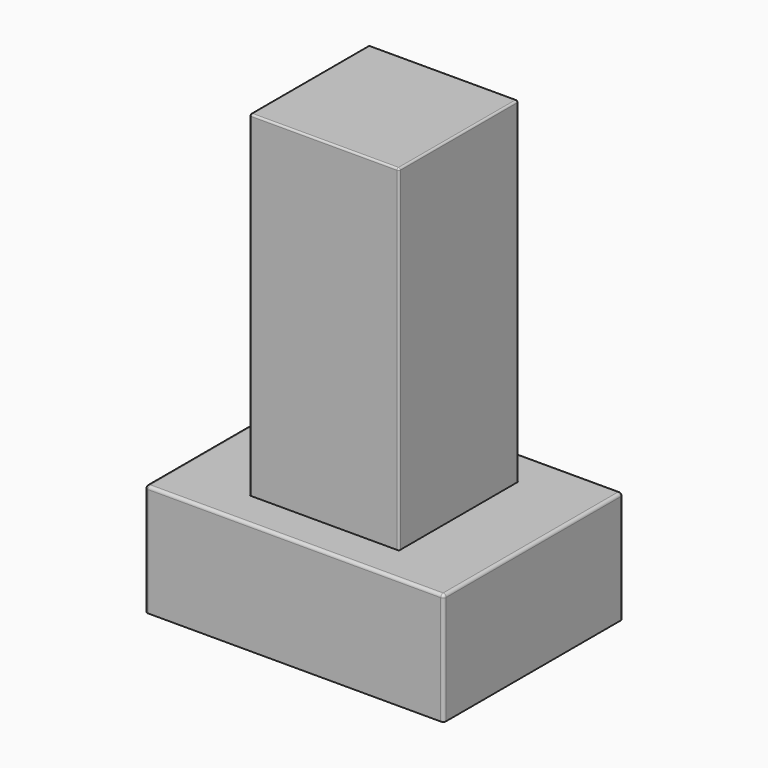
from build123d import *

# Parameters (mm, degrees)
F0_W     = 1016
F0_H     = 1016
F1_DEPTH = 3048
F3_DEPTH = 762
F4_R     = 20.32
F5_R     = 12.7


with BuildPart() as f1:
    # F0 (on Top) → F1 (new body)
    with BuildSketch(Plane.XY):
        Rectangle(F0_W, F0_H)
    extrude(amount=F1_DEPTH)

    # F5
    f5_edges = [f1.edges().sort_by_distance(p)[0] for p in [
        (508, 508, 1524),
        (-508, 508, 1524),
        (-508, -508, 1524),
        (508, -508, 1524),
        (0, 508, 3048),
        (-508, 0, 3048),
        (508, 0, 3048),
        (0, -508, 3048),
    ]]
    fillet(f5_edges, radius=F5_R)


with BuildPart() as f3:
    # F2 (on face) → F3 (new body)
    with BuildSketch(Plane.XY):
        Polygon((-1016, 0), (-508, 0), (-508, 508), (0, 508), (0, 762), (-1016, 762), align=None)
        Polygon((508, 508), (508, 0), (1016, 0), (1016, 762), (0, 762), (0, 508), align=None)
        Polygon((1016, 0), (508, 0), (508, -508), (0, -508), (0, -762), (1016, -762), align=None)
        Polygon((-508, -508), (-508, 0), (-1016, 0), (-1016, -762), (0, -762), (0, -508), align=None)
    extrude(amount=F3_DEPTH)

    # F4
    f4_edges = [f3.edges().sort_by_distance(p)[0] for p in [
        (1016, 762, 381),
        (0, 762, 762),
        (-1016, 762, 381),
        (1016, 0, 762),
        (1016, -762, 381),
        (0, -762, 762),
        (-1016, -762, 381),
        (-1016, 0, 762),
    ]]
    fillet(f4_edges, radius=F4_R)


solid = Compound([f1.part, f3.part])
